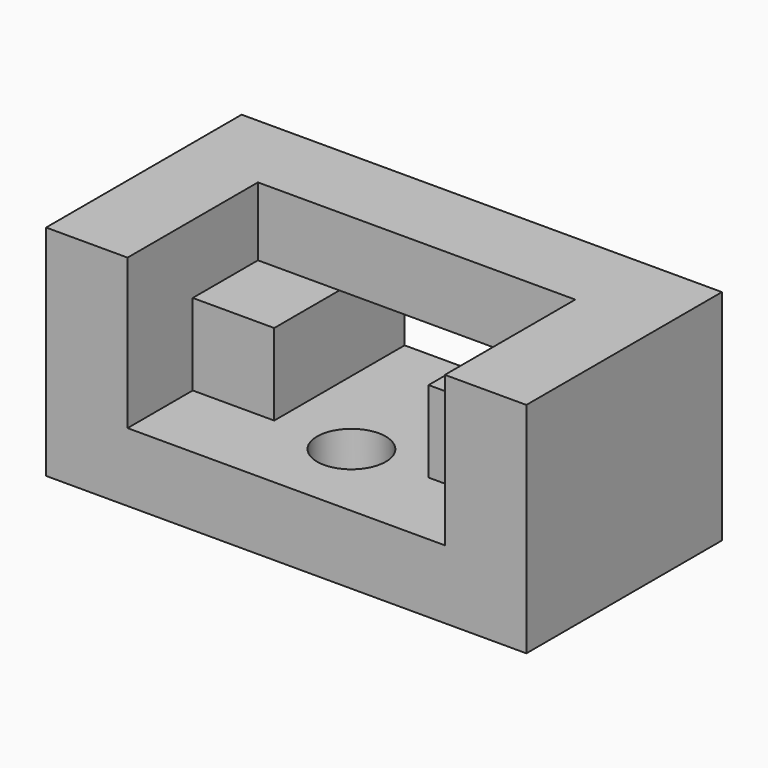
from build123d import *

# Parameters (mm, degrees)
F1_START = -38
F1_DEPTH = 19
F2_DEPTH = 57
F3_START = -19
F0_W     = 19
F0_H     = 19
F3_DEPTH = 38
F4_R     = 8
F5_DEPTH = 16


with BuildPart() as f1:
    # F0 (on Front) → F1 (new body)
    with BuildSketch(Plane.XZ.offset(F1_START)):
        Polygon((93, 51), (19, 51), (19, 35), (38, 35), (74, 35), (93, 35), align=None)
    extrude(amount=-F1_DEPTH)

    # F0 (on Front) → F2 (join)
    with BuildSketch(Plane.XZ):
        Polygon((0, 51), (0, 0), (112, 0), (112, 51), (93, 51), (93, 35), (93, 16), (74, 16), (38, 16), (19, 16), (19, 35), (19, 51), align=None)
    extrude(amount=-F2_DEPTH)

    # F0 (on Front) → F3 (join)
    with BuildSketch(Plane.XZ.offset(F3_START)):
        with Locations((83.5, 25.5)):
            Rectangle(F0_W, F0_H)
        with Locations((28.5, 25.5)):
            Rectangle(F0_W, F0_H)
    extrude(amount=-F3_DEPTH)

    # F4 (on face) → F5 (cut)
    with BuildSketch(Plane(origin=(0, 0, 0), x_dir=(1, 0, 0), z_dir=(0, 0, -1))):
        with Locations((56, -19)):
            Circle(F4_R)
    extrude(amount=-F5_DEPTH, mode=Mode.SUBTRACT)


solid = f1.part
